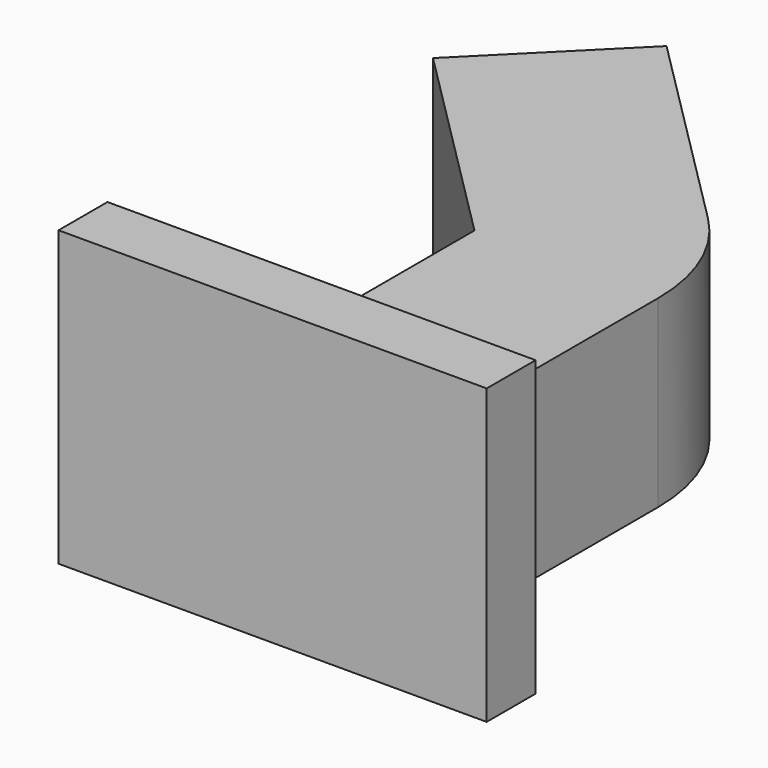
from build123d import *

# Parameters (mm, degrees)
F1_DEPTH = 7.62
F0_W     = 4.7625
F0_H     = 7.9375
F2_DEPTH = 4.7752
F3_DEPTH = 3.175


with BuildPart() as f1:
    # F0 (on Top) → F1 (new body)
    with BuildSketch(Plane.XY):
        Polygon((0, -18.387259), (-4.7625, -18.387259), (-7.9375, -18.387259), (-7.9375, -19.974759), (3.175, -19.974759), (3.175, -18.387259), align=None)
    extrude(amount=F1_DEPTH)

    # F0 (on Top) → F2 (join)
    with BuildSketch(Plane.XY):
        with Locations((-2.38125, -14.418509)):
            Rectangle(F0_W, F0_H)
        with BuildLine():
            Line((-1.394904, -7.082163), (-4.7625, -10.449759))
            Line((-4.7625, -10.449759), (0, -10.449759))
            ThreePointArc((0, -10.449759), (-0.362524, -8.627229), (-1.394904, -7.082163))
        make_face()
        Polygon((-10.146717, -5.065542), (-4.7625, -10.449759), (-1.394904, -7.082163), (-6.779121, -1.697946), align=None)
    extrude(amount=F2_DEPTH)


with BuildPart() as f3:
    # F0 (on Top) → F3 (new body)
    with BuildSketch(Plane.XY):
        Polygon((30.061543, 3.299114), (11.011543, 3.299114), (11.011543, -22.100886), (49.111543, -22.100886), (49.111543, 3.299114), align=None)
        Polygon((27.521543, -6.860886), (30.061543, -6.860886), (32.601543, -6.860886), (32.601543, -11.940886), (27.521543, -11.940886), align=None, mode=Mode.SUBTRACT)
    extrude(amount=F3_DEPTH)


solid = f1.part
